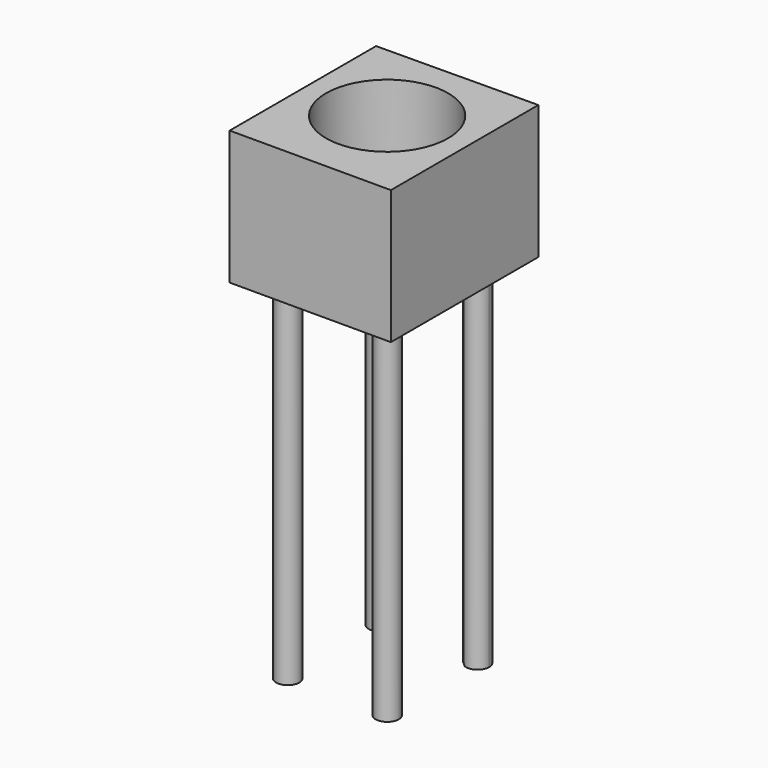
from build123d import *

# Parameters (mm, degrees)
F1_DEPTH = 58.674
F2_R     = 26.7576481094
F3_DEPTH = 36.068
F4_R     = 5.08
F5_DEPTH = 214.122


with BuildPart() as f1:
    # F0 (on Top) → F1 (new body)
    with BuildSketch(Plane.XY):
        Polygon((35.4626365006, 51.1673055589), (-35.2130606771, 50.5765117705), (-35.2130606771, -29.6294502914), (35.4626365006, -29.6294502914), align=None)
    extrude(amount=F1_DEPTH)

    # F2 (on face) → F3 (cut)
    with BuildSketch(Plane.XY.offset(58.674)):
        with Locations((0, 12.6274535432)):
            Circle(F2_R)
    extrude(amount=-F3_DEPTH, mode=Mode.SUBTRACT)

    # F4 (on face) → F5 (join)
    with BuildSketch(Plane.XY.offset(58.674)):
        with Locations((-22.9736331001, -13.1111371607)):
            Circle(F4_R)
        with Locations((-22.9736331001, 37.6888628393)):
            Circle(F4_R)
        with BuildLine():
            ThreePointArc((18.7894253284, 31.6781550573), (23.486962927, 32.2345703811), (25.6893701616, 36.4209602192))
            ThreePointArc((25.6893701616, 36.4209602192), (19.3290072561, 41.3369617275), (16.1747753466, 33.9429027488))
            ThreePointArc((16.1747753466, 33.9429027488), (17.5187357631, 32.852824482), (18.7894253284, 31.6781550573))
        make_face()
        with Locations((20.6093701616, -13.1111371607)):
            Circle(F4_R)
    extrude(amount=-F5_DEPTH)


solid = f1.part
